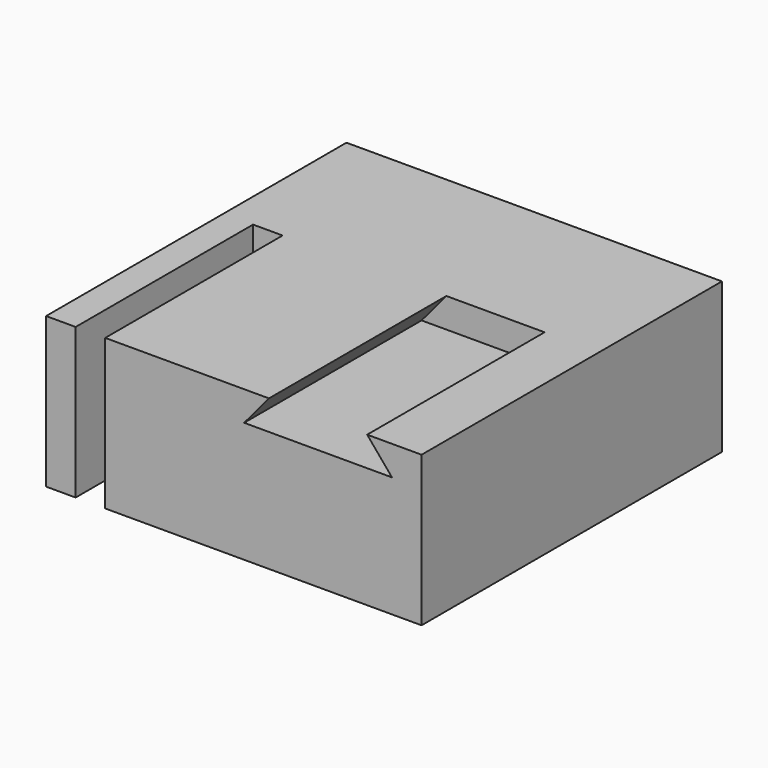
from build123d import *

# Parameters (mm, degrees)
F0_W     = 127
F0_H     = 50.8
F1_DEPTH = 63.5
F2_W     = 10
F2_H     = 50.8
F3_DEPTH = 75


with BuildPart() as f1:
    # F0 (on Front) → F1 (new body, symmetric)
    with BuildSketch(Plane.XZ):
        Rectangle(F0_W, F0_H)
    extrude(amount=F1_DEPTH, both=True)

    # F2 (on face) → F3 (cut, symmetric)
    with BuildSketch(Plane.XZ.offset(63.5)):
        with Locations((-48.5, 0)):
            Rectangle(F2_W, F2_H)
        Polygon((45.109004, 25.4), (11.890996, 25.4), (3.5, 15.4), (53.5, 15.4), align=None)
    extrude(amount=F3_DEPTH, both=True, mode=Mode.SUBTRACT)


solid = f1.part
